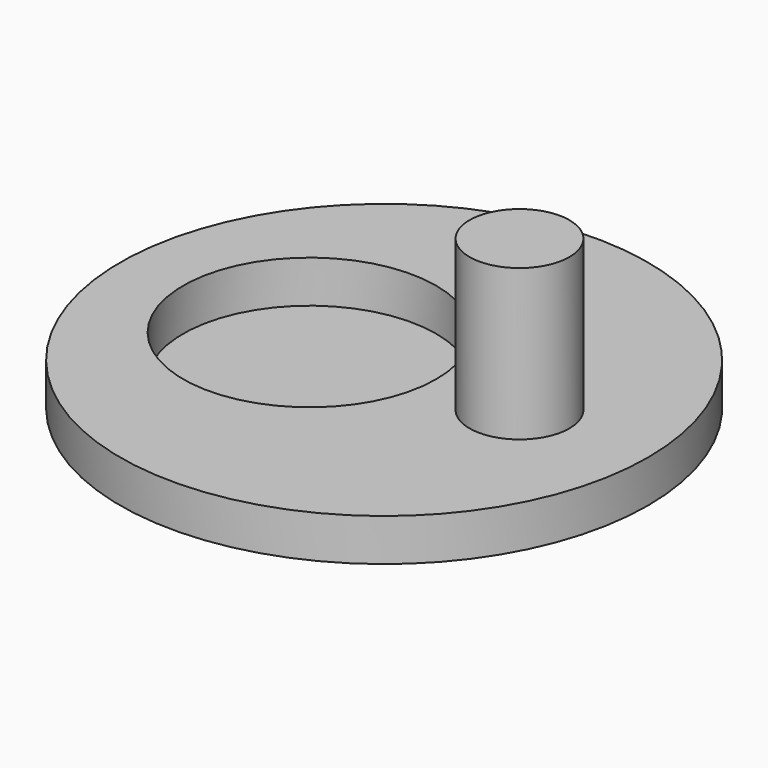
from build123d import *

# Parameters (mm, degrees)
F0_R     = 39.624
F0_R_2   = 19
F0_R_3   = 7.5
F1_DEPTH = 6.35
F2_R     = 7.5
F3_DEPTH = 29
F4_R     = 19
F5_DEPTH = 7.62


with BuildPart() as f1:
    # F0 (on Top) → F1 (new body)
    with BuildSketch(Plane.XY):
        Circle(F0_R)
        with Locations((-11.176, 0)):
            Circle(F0_R_2, mode=Mode.SUBTRACT)
        with Locations((20.32, 0)):
            Circle(F0_R_3, mode=Mode.SUBTRACT)
    extrude(amount=F1_DEPTH)


with BuildPart() as f3:
    # F2 (on Top) → F3 (new body)
    with BuildSketch(Plane.XY):
        with Locations((20.32, 0)):
            Circle(F2_R)
    extrude(amount=F3_DEPTH)


with BuildPart() as f5:
    # F4 (on Top) → F5 (new body)
    with BuildSketch(Plane.XY):
        with Locations((-11.176, 0)):
            Circle(F4_R)
    extrude(amount=-F5_DEPTH)


solid = Compound([f1.part, f3.part, f5.part])
